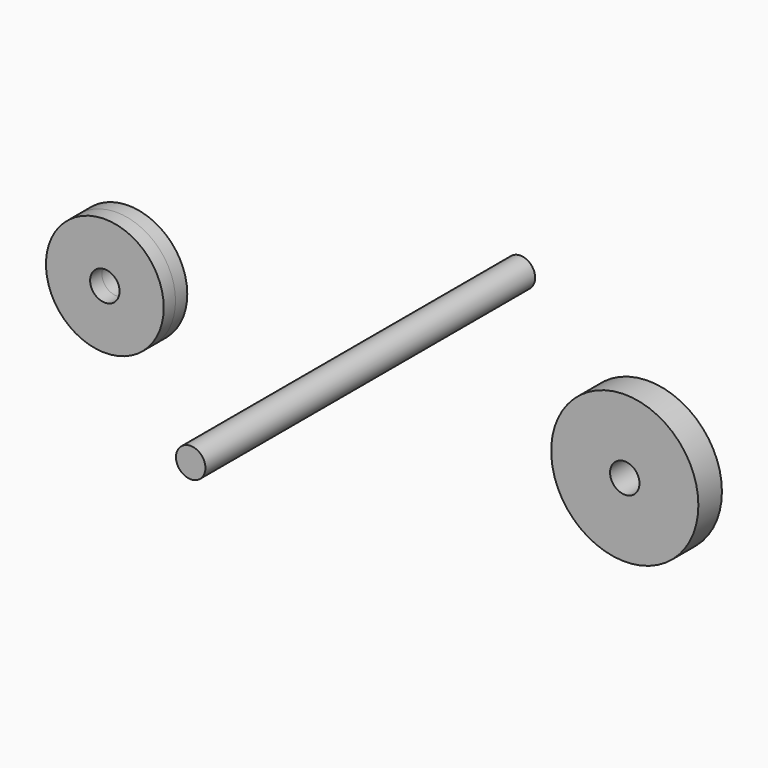
from build123d import *

# Parameters (mm, degrees)
F0_R     = 12.7
F0_R_2   = 3.175
F0_R_3   = 15.875
F1_DEPTH = 3.175
F2_DEPTH = 44.45


with BuildPart() as f1:
    # F0 (on Front) → F1 (new body, symmetric)
    with BuildSketch(Plane.XZ):
        with Locations((-51.538408, 0)):
            Circle(F0_R)
        with Locations((-51.538408, 0)):
            Circle(F0_R_2, mode=Mode.SUBTRACT)
        with Locations((60.610715, 0)):
            Circle(F0_R_3)
        with Locations((60.610715, 0)):
            Circle(F0_R_2, mode=Mode.SUBTRACT)
    extrude(amount=F1_DEPTH, both=True)


with BuildPart() as f2:
    # F0 (on Front) → F2 (new body, symmetric)
    with BuildSketch(Plane.XZ):
        Circle(F0_R_2)
    extrude(amount=F2_DEPTH, both=True)


solid = Compound([f1.part, f2.part])
